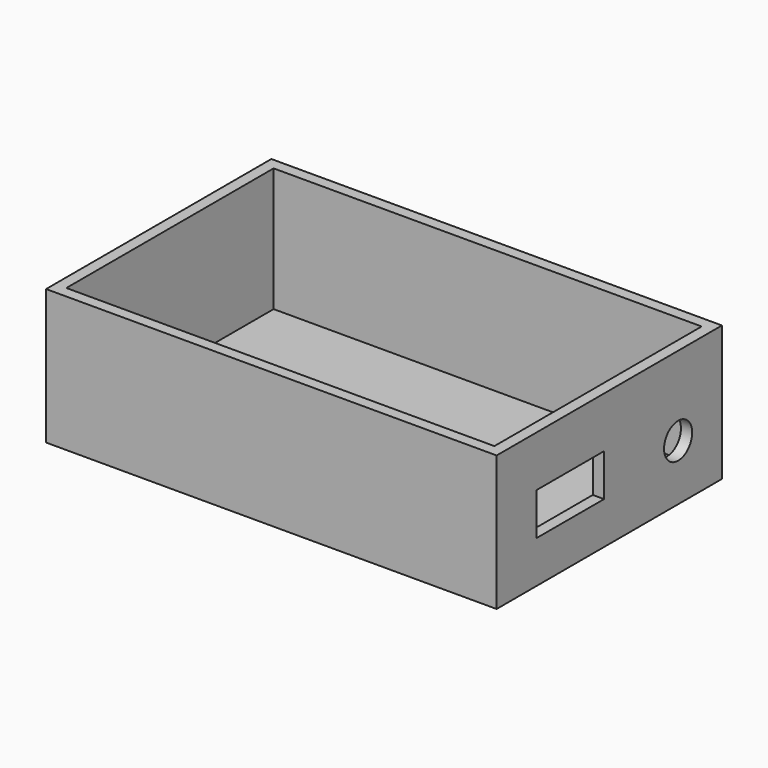
from build123d import *

# Parameters (mm, degrees)
F0_W     = 101.6
F0_H     = 30.48
F1_DEPTH = 63.5
F2_T     = -2.54
F4_D     = 7.9375
F4_DEPTH = 12.7
F5_W     = 19.05
F5_H     = 9.525
F6_DEPTH = 25.4


with BuildPart() as f1:
    # F0 (on Front) → F1 (new body)
    with BuildSketch(Plane.XZ):
        with Locations((50.8, 15.24)):
            Rectangle(F0_W, F0_H)
    extrude(amount=F1_DEPTH)

    # F2
    f2_openings = [f1.faces().sort_by_distance(p)[0] for p in [
        (50.8, -31.75, 30.48),
    ]]
    offset(amount=F2_T, openings=f2_openings)

    # F4
    with Locations(Plane.YZ.offset(101.6)):
        with Locations((-12.34637, 12.614627)):
            Hole(F4_D / 2, depth=F4_DEPTH)

    # F5 (on face) → F6 (cut)
    with BuildSketch(Plane.YZ.offset(101.6)):
        with Locations((-42.752528, 14.270137)):
            Rectangle(F5_W, F5_H)
    extrude(amount=-F6_DEPTH, mode=Mode.SUBTRACT)


solid = f1.part
